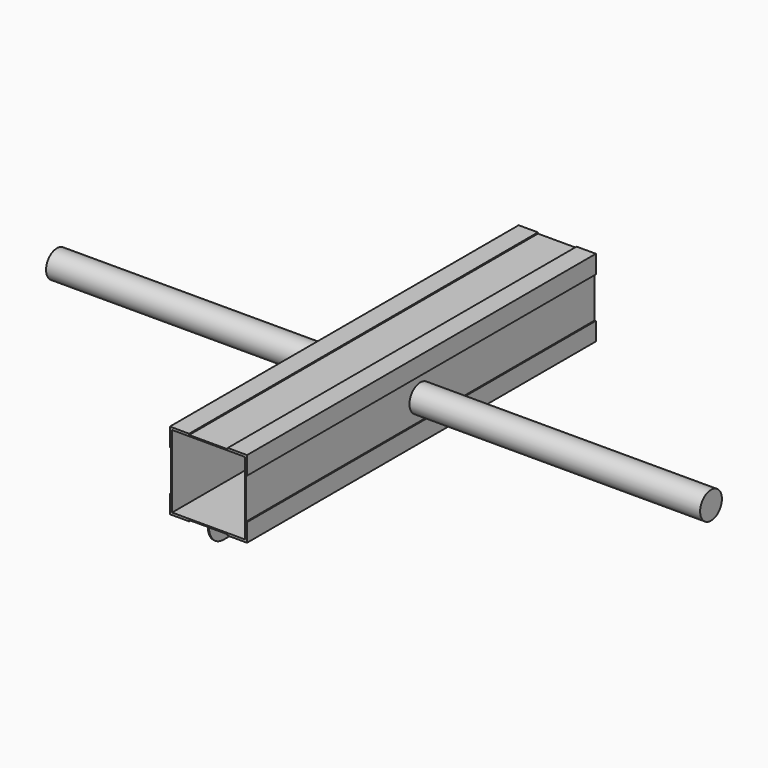
from build123d import *

# Parameters (mm, degrees)
F0_W          = 101.6
F0_H          = 101.6
F1_DEPTH      = 609.6
F2_R          = 19.05
F3_DEPTH      = 406.4
F3_DEPTH_BACK = 508
F4_W          = 0.79375
F4_H          = 609.6
F5_DEPTH      = 25.4
F6_R          = 25.4
F7_R          = 25.4


with BuildPart() as f1:
    # F0 (on Front) → F1 (new body)
    with BuildSketch(Plane.XZ):
        Polygon((-103.1875, -22.225), (-103.1875, 1.5875), (-77.7875, 1.5875), (-77.7875, 3.175), (-104.775, 3.175), (-104.775, -22.225), align=None)
        Polygon((-77.7875, 1.5875), (-103.1875, 1.5875), (-103.1875, -22.225), (-103.1875, -79.375), (-103.1875, -103.1875), (-77.7875, -103.1875), (-23.8125, -103.1875), (1.5875, -103.1875), (1.5875, -79.375), (1.5875, -22.225), (1.5875, 1.5875), (-23.8125, 1.5875), align=None)
        with Locations((-50.8, -50.8)):
            Rectangle(F0_W, F0_H, mode=Mode.SUBTRACT)
        Polygon((-103.1875, -103.1875), (-103.1875, -79.375), (-104.775, -79.375), (-104.775, -104.775), (-77.7875, -104.775), (-77.7875, -103.1875), align=None)
        Polygon((3.175, -79.375), (1.5875, -79.375), (1.5875, -103.1875), (-23.8125, -103.1875), (-23.8125, -104.775), (3.175, -104.775), align=None)
        Polygon((-23.8125, 3.175), (-23.8125, 1.5875), (1.5875, 1.5875), (1.5875, -22.225), (3.175, -22.225), (3.175, 3.175), align=None)
    extrude(amount=F1_DEPTH)

    # F2 (on face) → F3 (join, two sides)
    with BuildSketch(Plane.YZ.offset(1.5875)) as f3_sk:
        with Locations((-304.8, -50.8)):
            Circle(F2_R)
    extrude(amount=F3_DEPTH)
    extrude(f3_sk.sketch, amount=-F3_DEPTH_BACK)

    # F4 (on face) → F5 (join)
    with BuildSketch(Plane(origin=(0, 0, -103.1875), x_dir=(1, 0, 0), z_dir=(0, 0, -1))):
        with Locations((-50.403125, 304.8)):
            Rectangle(F4_W, F4_H)
        with Locations((-51.196875, 304.8)):
            Rectangle(F4_W, F4_H)
    extrude(amount=F5_DEPTH)

    # F6
    f6_edges = [f1.edges().sort_by_distance(p)[0] for p in [
        (-50.8, 0, -128.5875),
    ]]
    fillet(f6_edges, radius=F6_R)

    # F7
    f7_edges = [f1.edges().sort_by_distance(p)[0] for p in [
        (-50.8, -609.6, -128.5875),
    ]]
    fillet(f7_edges, radius=F7_R)


solid = f1.part
